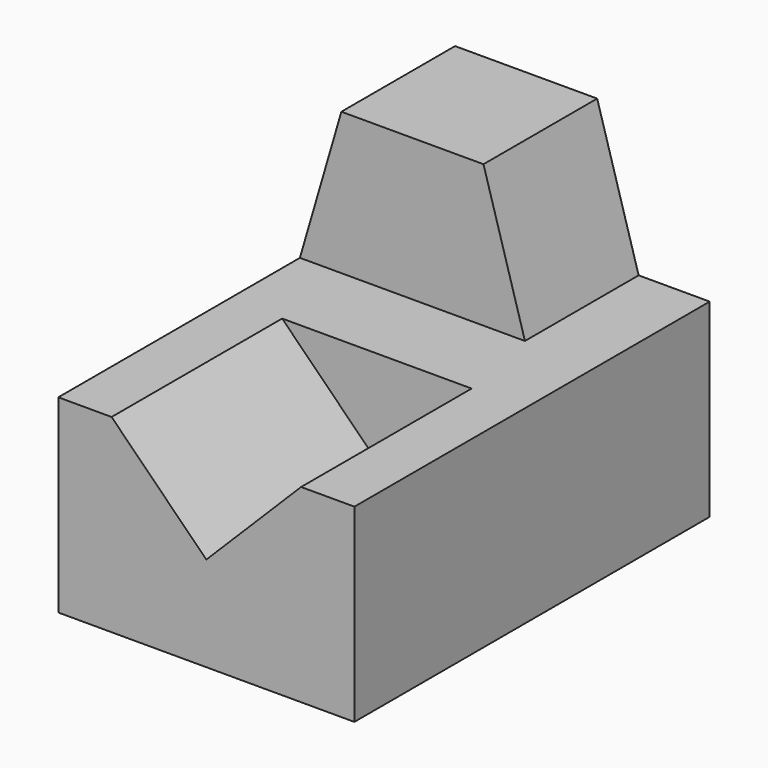
from build123d import *

# Parameters (mm, degrees)
F0_W     = 127
F0_H     = 190.5
F1_DEPTH = 81.28
F3_DEPTH = 91.44
F4_W     = 96.52
F4_H     = 60.96
F5_DEPTH = 60.96
F7_DEPTH = 60.96


with BuildPart() as f1:
    # F0 (on Top) → F1 (new body)
    with BuildSketch(Plane.XY):
        with Locations((-0.216242, 22.958302)):
            Rectangle(F0_W, F0_H)
    extrude(amount=F1_DEPTH)

    # F2 (on face) → F3 (cut)
    with BuildSketch(Plane.XZ.offset(72.291698)):
        Polygon((40.423758, 81.28), (-40.856242, 81.28), (-0.216242, 40.64), align=None)
    extrude(amount=-F3_DEPTH, mode=Mode.SUBTRACT)

    # F4 (on face) → F5 (join)
    with BuildSketch(Plane.XY.offset(81.28)):
        with Locations((-15.456242, 87.728302)):
            Rectangle(F4_W, F4_H)
    extrude(amount=F5_DEPTH)

    # F6 (on face) → F7 (cut)
    with BuildSketch(Plane.XZ.offset(-57.248302)):
        Polygon((-63.716242, 142.24), (-63.716242, 81.28), (-45.936242, 142.24), align=None)
        Polygon((15.023758, 142.24), (32.803758, 81.28), (32.803758, 142.24), align=None)
    extrude(amount=-F7_DEPTH, mode=Mode.SUBTRACT)


solid = f1.part
